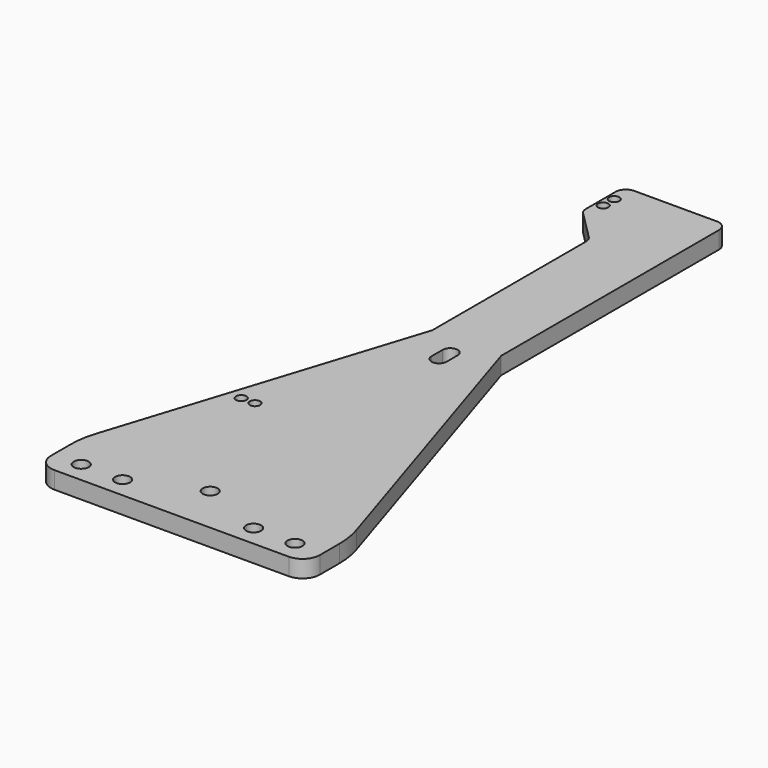
from build123d import *

# Parameters (mm, degrees)
SKETCH_R   = 2.175
SKETCH_R_2 = 1.5
PAD_DEPTH  = 5
FILLET_R   = 3


with BuildPart() as part:
    # Sketch → Pad (new body)
    with BuildSketch(Plane.XY):
        with BuildLine():
            Line((-34, -14), (34, -14))
            ThreePointArc((34, -14), (37.535534, -12.535534), (39, -9))
            Line((39, -9), (39, -1.887209))
            ThreePointArc((39, -1.887209), (38.703164, 1.953845), (37.819704, 5.703686))
            Line((10, 93), (37.819704, 5.703686))
            Line((10, 93), (10, 175))
            Line((-10, 175), (10, 175))
            Line((-10, 175), (-20, 175))
            Line((-20, 175), (-20, 160))
            Line((-20, 160), (-10, 150))
            Line((-10, 93), (-10, 150))
            Line((-37.819704, 5.703686), (-10, 93))
            ThreePointArc((-37.819704, 5.703686), (-38.703164, 1.953845), (-39, -1.887209))
            Line((-39, -9), (-39, -1.887209))
            ThreePointArc((-39, -9), (-37.535534, -12.535534), (-34, -14))
        make_face()
        Circle(SKETCH_R, mode=Mode.SUBTRACT)
        with Locations((19, -8)):
            Circle(SKETCH_R, mode=Mode.SUBTRACT)
        with Locations((31, -8)):
            Circle(SKETCH_R, mode=Mode.SUBTRACT)
        with Locations((-19, -8)):
            Circle(SKETCH_R, mode=Mode.SUBTRACT)
        with Locations((-31, -8)):
            Circle(SKETCH_R, mode=Mode.SUBTRACT)
        with Locations((-19, 40)):
            Circle(SKETCH_R_2, mode=Mode.SUBTRACT)
        with Locations((-23, 40)):
            Circle(SKETCH_R_2, mode=Mode.SUBTRACT)
        with Locations((-18, 165)):
            Circle(SKETCH_R_2, mode=Mode.SUBTRACT)
        with Locations((-18, 169)):
            Circle(SKETCH_R_2, mode=Mode.SUBTRACT)
        with BuildLine():
            ThreePointArc((2.175, 87), (0, 89.175), (-2.175, 87))
            Line((-2.175, 87), (-2.175, 83))
            ThreePointArc((-2.175, 83), (1e-06, 80.825), (2.175, 83.000002))
            Line((2.175, 83.000002), (2.175, 87))
        make_face(mode=Mode.SUBTRACT)
    extrude(amount=PAD_DEPTH)

    # Fillet
    fillet_edges = [part.edges().sort_by_distance(p)[0] for p in [
        (-20, 175, 2.5),
        (10, 175, 2.5),
        (-10, 150, 2.5),
        (-20, 160, 2.5),
    ]]
    fillet(fillet_edges, radius=FILLET_R)


solid = part.part
